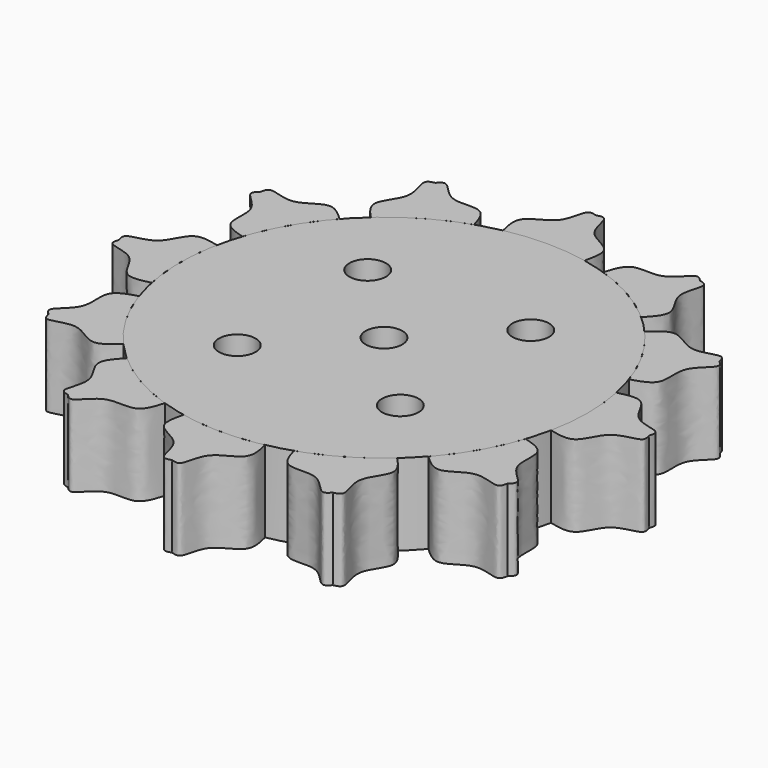
from build123d import *

# Parameters (mm, degrees)
F1_DEPTH = 20
F2_COUNT = 12
F0_R     = 4.5
F3_DEPTH = 20


with BuildPart() as f1:
    # F0 (on Top) → F1 (new body)
    with BuildSketch(Plane.XY):
        with BuildLine():
            ThreePointArc((-9.999983578, 48.9897982078), (0, 50), (9.999983578, 48.9897982078))
            add(Edge.make_bspline(
                [(0, 64.9999096791), (0.7597996527, 65.2406318624), (2.8464669216, 65.8926767733), (2.858085166, 57.8426141749), (11.6533741435, 55.9637539953), (10.5460290411, 51.3080519537), (9.999983578, 48.9897982078)],
                knots=[0, 0, 0, 0, 0.1567159496, 0.4320235388, 0.7287412918, 1, 1, 1, 1], degree=3))
            add(Edge.make_bspline(
                [(0, 64.9999096791), (-0.7597996527, 65.2406318624), (-2.8464669216, 65.8926767733), (-2.858085166, 57.8426141749), (-11.6533741435, 55.9637539953), (-10.5460290411, 51.3080519537), (-9.999983578, 48.9897982078)],
                knots=[0, 0, 0, 0, 0.1567159496, 0.4320235388, 0.7287412918, 1, 1, 1, 1], degree=3))
        make_face()
    extrude(amount=F1_DEPTH)


with BuildPart() as f2_1:
    # F2: instance of F1
    add(f1.part.rotate(Axis((0, 0, 0), (0, 0, 1)), 1 * 360 / F2_COUNT))


with BuildPart() as f2_2:
    # F2: instance of F1
    add(f1.part.rotate(Axis((0, 0, 0), (0, 0, 1)), 2 * 360 / F2_COUNT))


with BuildPart() as f2_3:
    # F2: instance of F1
    add(f1.part.rotate(Axis((0, 0, 0), (0, 0, 1)), 3 * 360 / F2_COUNT))


with BuildPart() as f2_4:
    # F2: instance of F1
    add(f1.part.rotate(Axis((0, 0, 0), (0, 0, 1)), 4 * 360 / F2_COUNT))


with BuildPart() as f2_5:
    # F2: instance of F1
    add(f1.part.rotate(Axis((0, 0, 0), (0, 0, 1)), 5 * 360 / F2_COUNT))


with BuildPart() as f2_6:
    # F2: instance of F1
    add(f1.part.rotate(Axis((0, 0, 0), (0, 0, 1)), 6 * 360 / F2_COUNT))


with BuildPart() as f2_7:
    # F2: instance of F1
    add(f1.part.rotate(Axis((0, 0, 0), (0, 0, 1)), 7 * 360 / F2_COUNT))


with BuildPart() as f2_8:
    # F2: instance of F1
    add(f1.part.rotate(Axis((0, 0, 0), (0, 0, 1)), 8 * 360 / F2_COUNT))


with BuildPart() as f2_9:
    # F2: instance of F1
    add(f1.part.rotate(Axis((0, 0, 0), (0, 0, 1)), 9 * 360 / F2_COUNT))


with BuildPart() as f2_10:
    # F2: instance of F1
    add(f1.part.rotate(Axis((0, 0, 0), (0, 0, 1)), 10 * 360 / F2_COUNT))


with BuildPart() as f2_11:
    # F2: instance of F1
    add(f1.part.rotate(Axis((0, 0, 0), (0, 0, 1)), 11 * 360 / F2_COUNT))


with BuildPart() as f3:
    # F0 (on Top) → F3 (new body)
    with BuildSketch(Plane.XY):
        with BuildLine():
            ThreePointArc((-9.999983578, 48.9897982078), (-31.622783093, -38.7298281619), (50, 0))
            ThreePointArc((50, 0), (38.7298281619, 31.622783093), (9.999983578, 48.9897982078))
            ThreePointArc((9.999983578, 48.9897982078), (0, 50), (-9.999983578, 48.9897982078))
        make_face()
        with Locations((-20, -20)):
            Circle(F0_R, mode=Mode.SUBTRACT)
        with Locations((20, -20)):
            Circle(F0_R, mode=Mode.SUBTRACT)
        Circle(F0_R, mode=Mode.SUBTRACT)
        with Locations((-20, 20)):
            Circle(F0_R, mode=Mode.SUBTRACT)
        with Locations((20, 20)):
            Circle(F0_R, mode=Mode.SUBTRACT)
    extrude(amount=F3_DEPTH)


solid = Compound([f1.part, f2_1.part, f2_2.part, f2_3.part, f2_4.part, f2_5.part, f2_6.part, f2_7.part, f2_8.part, f2_9.part, f2_10.part, f2_11.part, f3.part])
